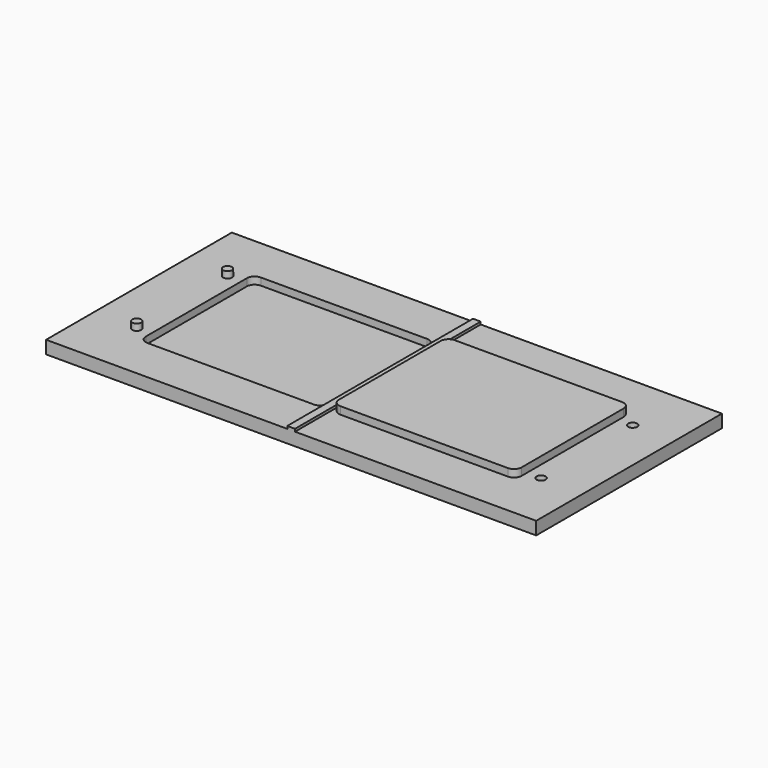
from build123d import *

# Parameters (mm, degrees)
F0_W      = 380
F0_H      = 180
F1_DEPTH  = 10
F2_W      = 6
F2_H      = 180
F3_DEPTH  = 2
F5_DEPTH  = 5.6
F7_DEPTH  = 5.8
F8_R      = 3.5
F9_DEPTH  = 5
F9_TAPER  = 1
F10_R     = 3.5
F11_DEPTH = 5


with BuildPart() as f1:
    # F0 (on Top) → F1 (new body)
    with BuildSketch(Plane.XY):
        Rectangle(F0_W, F0_H)
    extrude(amount=F1_DEPTH)

    # F2 (on face) → F3 (join)
    with BuildSketch(Plane.XY.offset(10)):
        Rectangle(F2_W, F2_H)
    extrude(amount=F3_DEPTH)

    # F4 (on face) → F5 (cut)
    with BuildSketch(Plane.XY.offset(10)):
        with BuildLine():
            ThreePointArc((-4.5, 49), (-6.2573593129, 53.2426406871), (-10.5, 55))
            Line((-10.5, 55), (-139.5, 55))
            ThreePointArc((-139.5, 55), (-143.7426406871, 53.2426406871), (-145.5, 49))
            Line((-145.5, 49), (-145.5, -49))
            ThreePointArc((-145.5, -49), (-143.7426406871, -53.2426406871), (-139.5, -55))
            Line((-139.5, -55), (-10.5, -55))
            ThreePointArc((-10.5, -55), (-6.2573593129, -53.2426406871), (-4.5, -49))
            Line((-4.5, -49), (-4.5, 49))
        make_face()
    extrude(amount=-F5_DEPTH, mode=Mode.SUBTRACT)

    # F6 (on face) → F7 (join)
    with BuildSketch(Plane.XY.offset(10)):
        with BuildLine():
            Line((140.3, 55.4), (10.5, 55.4))
            ThreePointArc((10.5, 55.4), (6.2573593129, 53.6426406871), (4.5, 49.4))
            Line((4.5, 49.4), (4.5, -49.4))
            ThreePointArc((4.5, -49.4), (6.2573593129, -53.6426406871), (10.5, -55.4))
            Line((10.5, -55.4), (140.3, -55.4))
            ThreePointArc((140.3, -55.4), (144.5426406871, -53.6426406871), (146.3, -49.4))
            Line((146.3, -49.4), (146.3, 49.4))
            ThreePointArc((146.3, 49.4), (144.5426406871, 53.6426406871), (140.3, 55.4))
        make_face()
    extrude(amount=F7_DEPTH)

    # F8 (on face) → F9 (join)
    with BuildSketch(Plane.XY.offset(10)):
        with Locations((-156.5, 44)):
            Circle(F8_R)
        with Locations((-156.5, -44)):
            Circle(F8_R)
    extrude(amount=F9_DEPTH, taper=F9_TAPER)

    # F10 (on face) → F11 (cut)
    with BuildSketch(Plane.XY.offset(10)):
        with Locations((157.3, 44.4)):
            Circle(F10_R)
        with Locations((157.3, -44.4)):
            Circle(F10_R)
    extrude(amount=-F11_DEPTH, mode=Mode.SUBTRACT)


solid = f1.part
